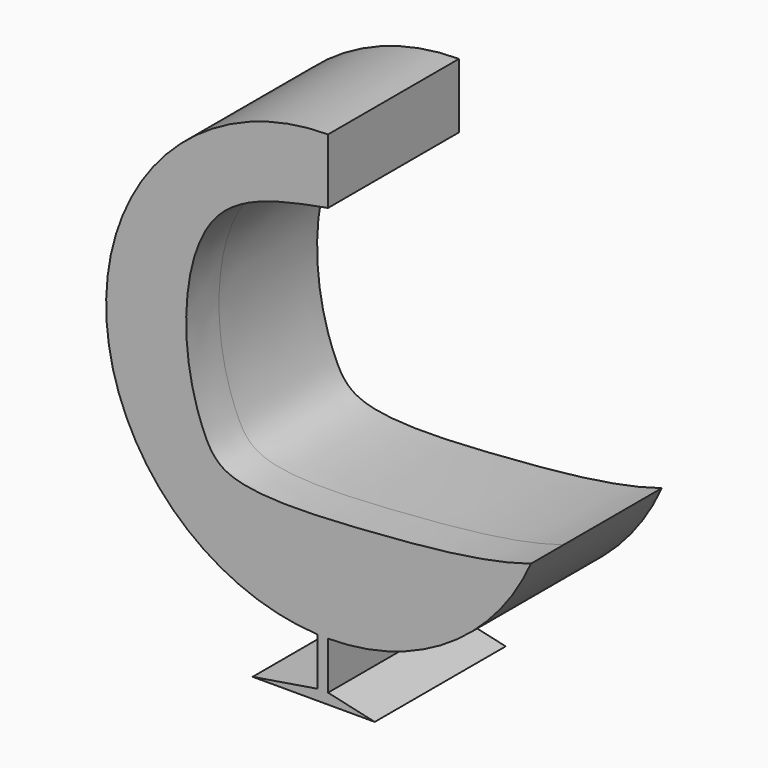
from build123d import *

# Parameters (mm, degrees)
F1_DEPTH = 51.054
F2_DEPTH = 68.072


with BuildPart() as f1:
    # F0 (on Front) → F1 (new body)
    with BuildSketch(Plane.XZ):
        with BuildLine():
            Line((0, 65.3698882345), (0, 92.296976882))
            ThreePointArc((0, 92.296976882), (-92.2708846232, 2.1944913782), (-4.3877419956, -92.1926225993))
            ThreePointArc((-4.3877419956, -92.1926225993), (-2.1944913782, -92.2708846232), (0, -92.296976882))
            ThreePointArc((0, -92.296976882), (50.3045998388, -77.3833262183), (84.3524325739, -37.4619681866))
            add(Edge.make_bspline(
                [(84.3524325739, -37.4619681866), (65.6113964466, -43.3647037399), (20.843864142, -47.7331270112), (-41.6933908552, -51.0132913621), (-52.894529122, -33.1984833955), (-62.1898292751, 0.0893474898), (-53.3978858629, 55.6026465711), (-17.5375749532, 62.1580298723), (0, 65.3698882345)],
                knots=[0, 0, 0, 0, 0.205860854, 0.3978253327, 0.500444149, 0.6473149368, 0.8234322757, 1, 1, 1, 1], degree=3))
        make_face()
    extrude(amount=F1_DEPTH)

    # F0 (on Front) → F2 (join)
    with BuildSketch(Plane.XZ):
        with BuildLine():
            Line((0, 65.3698882345), (0, 92.296976882))
            ThreePointArc((0, 92.296976882), (-92.2708846232, 2.1944913782), (-4.3877419956, -92.1926225993))
            ThreePointArc((-4.3877419956, -92.1926225993), (-2.1944913782, -92.2708846232), (0, -92.296976882))
            ThreePointArc((0, -92.296976882), (50.3045998388, -77.3833262183), (84.3524325739, -37.4619681866))
            add(Edge.make_bspline(
                [(84.3524325739, -37.4619681866), (65.6113964466, -43.3647037399), (20.843864142, -47.7331270112), (-41.6933908552, -51.0132913621), (-52.894529122, -33.1984833955), (-62.1898292751, 0.0893474898), (-53.3978858629, 55.6026465711), (-17.5375749532, 62.1580298723), (0, 65.3698882345)],
                knots=[0, 0, 0, 0, 0.205860854, 0.3978253327, 0.500444149, 0.6473149368, 0.8234322757, 1, 1, 1, 1], degree=3))
        make_face()
        with BuildLine():
            ThreePointArc((0, -92.296976882), (-2.1944913782, -92.2708846232), (-4.3877419956, -92.1926225993))
            Line((-4.3877419956, -92.1926225993), (-4.3877419956, -112.10192967))
            Line((-4.3877419956, -112.10192967), (-31.3755569706, -116.4980808058))
            Line((-31.3755569706, -116.4980808058), (19.4244430294, -116.4980808058))
            Line((19.4244430294, -116.4980808058), (0, -112.10192967))
            Line((0, -112.10192967), (0, -92.296976882))
        make_face()
    extrude(amount=F2_DEPTH)


solid = f1.part
